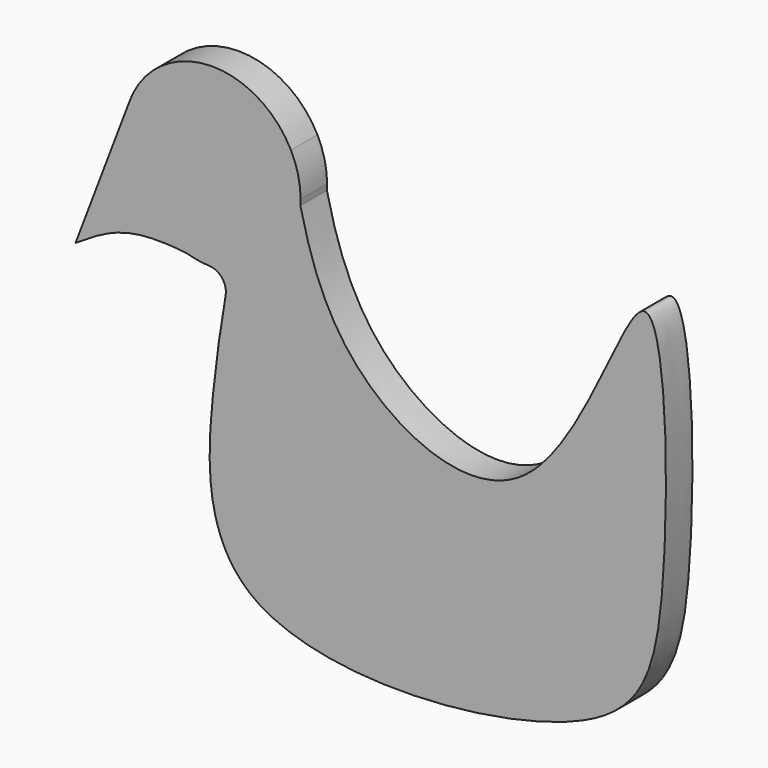
from build123d import *

# Parameters (mm, degrees)
F1_DEPTH = 4.7625
F2_R     = 2.54


with BuildPart() as f1:
    # F0 (on Front) → F1 (new body)
    with BuildSketch(Plane.XZ):
        with BuildLine():
            add(Edge.make_bspline(
                [(11.3133466587, 5.7704581602), (11.7428412995, 3.5608561173), (12.1718384389, 1.3510271713), (12.6729501691, -0.8284527816)],
                knots=[0, 0, 0, 0, 0.0305410826, 0.0305410826, 0.0305410826, 0.0305410826], degree=3))
            ThreePointArc((11.3133466587, 5.7704581602), (-0.8545780215, 12.6712152695), (-11.9857190469, 4.1991116833))
            ThreePointArc((-11.9857190469, 4.1991116833), (-11.2893056124, -5.8173515272), (-3.5364968369, -12.1976715041))
            add(Edge.make_bspline(
                [(-3.5364968369, -12.1976715041), (-3.2516512837, -12.2500284223), (-3.1402935445, -12.291734304), (-3.0290008838, -12.3334972188)],
                knots=[0.8892992409, 0.8892992409, 0.8892992409, 0.8892992409, 1, 1, 1, 1], degree=3))
            ThreePointArc((-3.0290008838, -12.3334972188), (-0.2874068585, -12.6967475086), (2.4678158517, -12.4579245833))
            ThreePointArc((2.4678158517, -12.4579245833), (9.545776685, -8.3766429719), (12.6729501691, -0.8284527816))
        make_face()
        with BuildLine():
            ThreePointArc((-3.5364968369, -12.1976715041), (-11.2893056124, -5.8173515272), (-11.9857190469, 4.1991116833))
            Line((-11.9857190469, 4.1991116833), (-19.6645160516, -16.0388710598))
            add(Edge.make_bspline(
                [(-19.6645160516, -16.0388710598), (-17.1400683384, -14.3993709168), (-12.2899102458, -11.2458466847), (-4.6336244483, -11.9960105691), (-3.5364968369, -12.1976715041)],
                knots=[0, 0, 0, 0, 0.4629177928, 0.8892992409, 0.8892992409, 0.8892992409, 0.8892992409], degree=3))
        make_face()
        with BuildLine():
            add(Edge.make_bspline(
                [(11.3133466587, 5.7704581602), (11.7428412995, 3.5608561173), (12.1718384389, 1.3510271713), (12.6729501691, -0.8284527816)],
                knots=[0, 0, 0, 0, 0.0305410826, 0.0305410826, 0.0305410826, 0.0305410826], degree=3))
            ThreePointArc((11.3133466587, 5.7704581602), (-0.8545780215, 12.6712152695), (-11.9857190469, 4.1991116833))
            ThreePointArc((-11.9857190469, 4.1991116833), (-11.2893056124, -5.8173515272), (-3.5364968369, -12.1976715041))
            add(Edge.make_bspline(
                [(-3.5364968369, -12.1976715041), (-3.2516512837, -12.2500284223), (-3.1402935445, -12.291734304), (-3.0290008838, -12.3334972188)],
                knots=[0.8892992409, 0.8892992409, 0.8892992409, 0.8892992409, 1, 1, 1, 1], degree=3))
            ThreePointArc((-3.0290008838, -12.3334972188), (-0.2874068585, -12.6967475086), (2.4678158517, -12.4579245833))
            ThreePointArc((2.4678158517, -12.4579245833), (9.545776685, -8.3766429719), (12.6729501691, -0.8284527816))
        make_face()
        with BuildLine():
            ThreePointArc((12.6729501691, -0.8284527816), (12.6932357409, -0.4144471331), (12.7, 0))
            ThreePointArc((12.7, 0), (12.3484716173, 2.967363934), (11.3133466587, 5.7704581602))
            add(Edge.make_bspline(
                [(11.3133466587, 5.7704581602), (11.7428412995, 3.5608561173), (12.1718384389, 1.3510271713), (12.6729501691, -0.8284527816)],
                knots=[0, 0, 0, 0, 0.0305410826, 0.0305410826, 0.0305410826, 0.0305410826], degree=3))
        make_face()
        with BuildLine():
            add(Edge.make_bspline(
                [(12.6729501691, -0.8284527816), (14.1550795879, -7.2746626007), (19.0145548426, -21.4892137883), (48.7240292896, -35.622232069), (64.8319722318, 22.4283481922), (66.2321606601, -36.6907417355), (58.9672049161, -56.8155018628), (-1.666350942, -61.4588973098), (-0.4207114726, -29.1797554092), (1.5549905482, -17.7423189428), (2.4678158517, -12.4579245833)],
                knots=[0.0305410826, 0.0305410826, 0.0305410826, 0.0305410826, 0.1208719096, 0.2382858283, 0.3709129117, 0.5097304283, 0.6234330746, 0.7860410753, 0.9011449437, 1, 1, 1, 1], degree=3))
            ThreePointArc((12.6729501691, -0.8284527816), (9.545776685, -8.3766429719), (2.4678158517, -12.4579245833))
        make_face()
    extrude(amount=F1_DEPTH)

    # F2
    f2_edges = [f1.edges().sort_by_distance(p)[0] for p in [
        (2.467816, -2.38125, -12.457925),
    ]]
    fillet(f2_edges, radius=F2_R)


solid = f1.part
